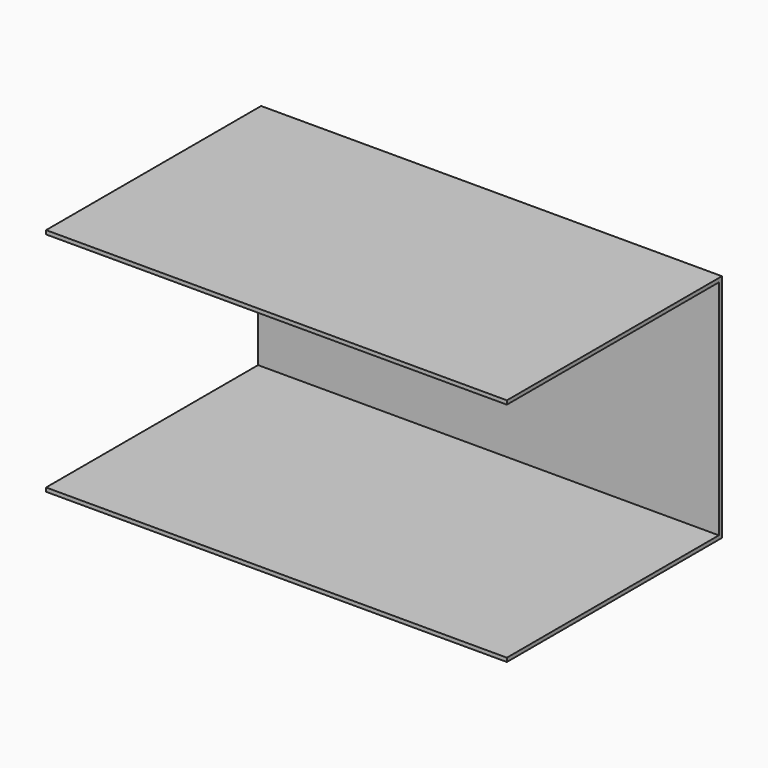
from build123d import *

# Parameters (mm, degrees)
F0_W     = 304.8
F0_H     = 152.4
F1_DEPTH = 88.9
F2_T     = -2.54


with BuildPart() as f1:
    # F0 (on Front) → F1 (new body, symmetric)
    with BuildSketch(Plane.XZ):
        with Locations((-43.711439, -5.892325)):
            Rectangle(F0_W, F0_H)
    extrude(amount=F1_DEPTH, both=True)

    # F2
    f2_openings = [f1.faces().sort_by_distance(p)[0] for p in [
        (-43.711439, -88.9, -5.892325),
        (-196.111439, 0, -5.892325),
        (108.688561, 0, -5.892325),
    ]]
    offset(amount=F2_T, openings=f2_openings)


solid = f1.part
